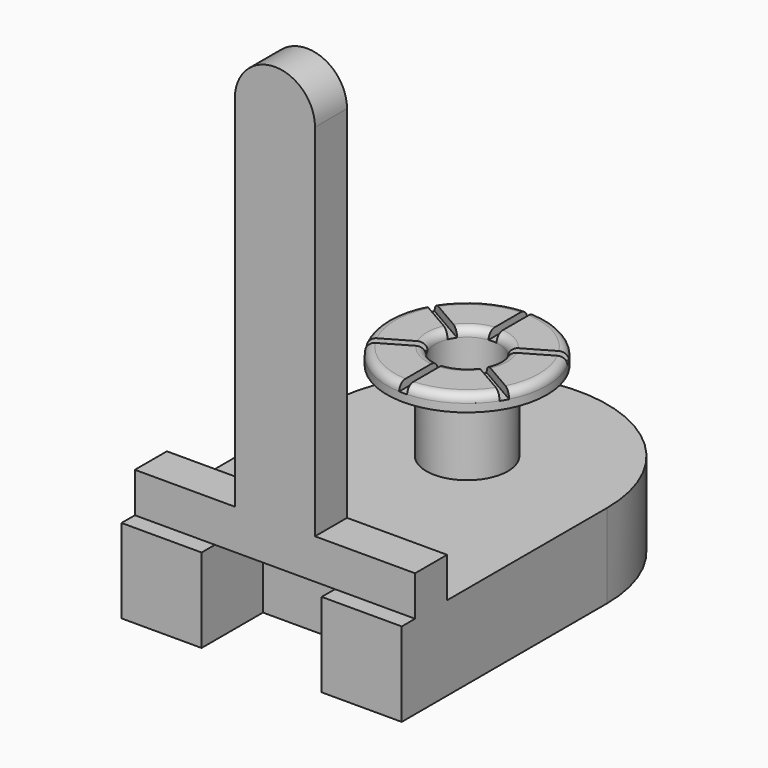
from build123d import *

# Parameters (mm, degrees)
SKETCH_R           = 0.5
SKETCH_W           = 1.5
SKETCH_H           = 1
PAD_DEPTH          = 0.5
PAD_DEPTH_BACK     = 0.55
SKETCH001_W        = 4.919434
SKETCH001_H        = 5.037946
POCKET_DEPTH       = 1.05
POCKET_DEPTH_BACK  = 1.55
SKETCH006_W        = 1.496239
SKETCH006_H        = 0.320585
POCKET003_DEPTH    = 5
SKETCH002_R        = 0.51
SKETCH002_R_2      = 0.4
PAD001_DEPTH       = 1.5
SKETCH003_R        = 1
PAD002_DEPTH       = 0.2
SKETCH004_R        = 0.4
POCKET001_DEPTH    = 1
FILLET_R           = 0.1
SKETCH005_W        = 0.1
SKETCH005_H        = 1.784702
POCKET002_DEPTH    = 0.1
POLARPATTERN_COUNT = 6
PAD003_DEPTH       = 0.25


with BuildPart() as part:
    # Sketch → Pad (new body, two sides)
    with BuildSketch(Plane.XY) as pad_sk:
        with BuildLine():
            ThreePointArc((1.75, 0), (0, 1.75), (-1.75, 0))
            Line((-1.75, 0), (-1.75, -4.25))
            Line((-1.75, -4.25), (-1.75, -8))
            Line((-1.75, -8), (1.75, -8))
            Line((1.75, -8), (1.75, -4.25))
            Line((1.75, -4.25), (1.75, 0))
        make_face()
        Circle(SKETCH_R, mode=Mode.SUBTRACT)
        with Locations((0, -2.75)):
            Rectangle(SKETCH_W, SKETCH_H, mode=Mode.SUBTRACT)
    extrude(amount=PAD_DEPTH)
    extrude(pad_sk.sketch, amount=-PAD_DEPTH_BACK)

    # Sketch001 → Pocket (cut, two sides)
    with BuildSketch(Plane.XY) as pocket_sk:
        with Locations((-0.357018, -5.727314)):
            Rectangle(SKETCH001_W, SKETCH001_H)
    extrude(amount=-POCKET_DEPTH, mode=Mode.SUBTRACT)
    extrude(pocket_sk.sketch, amount=POCKET_DEPTH_BACK, mode=Mode.SUBTRACT)

    # Sketch006 → Pocket003 (cut)
    with BuildSketch(Plane.XY):
        with Locations((-0.005068, -3.405655)):
            Rectangle(SKETCH006_W, SKETCH006_H)
    extrude(amount=-POCKET003_DEPTH, mode=Mode.SUBTRACT)

    # Sketch002 → Pad001 (join)
    with BuildSketch(Plane.XY):
        Circle(SKETCH002_R)
        Circle(SKETCH002_R_2, mode=Mode.SUBTRACT)
    extrude(amount=PAD001_DEPTH)

    # Sketch003 → Pad002 (join)
    with BuildSketch(Plane.XY.offset(1.5)):
        Circle(SKETCH003_R)
    extrude(amount=PAD002_DEPTH)

    # Sketch004 → Pocket001 (cut)
    with BuildSketch(Plane.XY.offset(1.7)):
        Circle(SKETCH004_R)
    extrude(amount=-POCKET001_DEPTH, mode=Mode.SUBTRACT)

    # Fillet
    fillet_edges = [part.edges().sort_by_distance(p)[0] for p in [
        (-0.4, 0, 1.7),
        (-1, 0, 1.7),
    ]]
    fillet(fillet_edges, radius=FILLET_R)

    # Sketch005 → Pocket002 (cut)
    with BuildSketch(Plane.XY.offset(1.7)):
        with Locations((0, 0.892351)):
            Rectangle(SKETCH005_W, SKETCH005_H)
    pocket002 = extrude(amount=-POCKET002_DEPTH, mode=Mode.SUBTRACT)

    # PolarPattern: Pocket002 ×6 about axis
    polarpattern_axis = Axis((0, 0, 1.7), (0, 0, 1))
    for i in range(1, POLARPATTERN_COUNT):
        add(pocket002.rotate(polarpattern_axis, i * 360 / POLARPATTERN_COUNT), mode=Mode.SUBTRACT)

    # Sketch007 → Pad003 (join, symmetric)
    with BuildSketch(Plane(origin=(0, -2.75, -0.05), x_dir=(-1, 0, 0), z_dir=(0, -1, 0))):
        with BuildLine():
            Line((-1.75, -0.55), (1.75, -0.55))
            Line((1.75, -0.55), (1.75, -1.05))
            Line((0.5, -1.05), (1.75, -1.05))
            Line((0.5, -5.55), (0.5, -1.05))
            ThreePointArc((-0.5, -5.55), (0, -6.05), (0.5, -5.55))
            Line((-0.5, -1.05), (-0.5, -5.55))
            Line((-1.75, -1.05), (-0.5, -1.05))
            Line((-1.75, -1.05), (-1.75, -0.55))
        make_face()
    extrude(amount=PAD003_DEPTH, both=True)


with BuildPart() as part_1:
    # Body002 placement: moved
    add(part.part.moved(Location((5, 0, 0))))


solid = part_1.part
